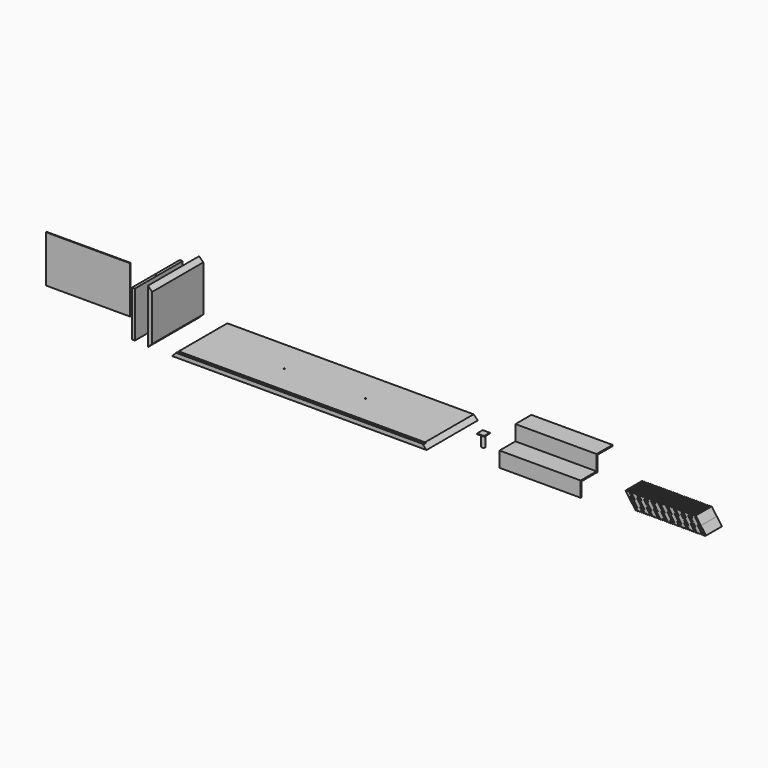
from build123d import *

# Parameters (mm, degrees)
F0_W      = 1790
F0_H      = 450
F1_DEPTH  = 29
F3_DEPTH  = 450
F4_W      = 18
F4_H      = 5
F5_DEPTH  = 895
F6_R      = 4
F7_DEPTH  = 10
F8_W      = 29
F8_H      = 450
F9_DEPTH  = 380
F11_DEPTH = 450
F12_W     = 20
F12_H     = 420
F13_DEPTH = 322
F14_R     = 4
F15_DEPTH = 322
F16_W     = 571
F16_H     = 280
F17_DEPTH = 322
F19_DEPTH = 571
F20_W     = 571
F20_H     = 140
F21_DEPTH = 107
F23_DEPTH = 140
F24_W     = 590
F24_H     = 6
F25_DEPTH = 330
F26_W     = 50
F26_H     = 50
F27_DEPTH = 85
F29_W     = 30
F29_H     = 80


with BuildPart() as f1:
    # F0 (on Top) → F1 (new body)
    with BuildSketch(Plane.XY):
        Rectangle(F0_W, F0_H)
    extrude(amount=F1_DEPTH)

    # F2 (on face) → F3 (cut)
    with BuildSketch(Plane.XZ.offset(225)):
        Polygon((-895, 29), (-895, 0), (-866, 29), align=None)
        Polygon((866, 29), (895, 0), (895, 29), align=None)
    extrude(amount=-F3_DEPTH, mode=Mode.SUBTRACT)

    # F4 (on Right) → F5 (cut, symmetric)
    with BuildSketch(Plane.YZ):
        with Locations((-211, 26.5)):
            Rectangle(F4_W, F4_H)
    extrude(amount=F5_DEPTH, both=True, mode=Mode.SUBTRACT)

    # F6 (on face) → F7 (cut)
    with BuildSketch(Plane.XY.offset(29)):
        with Locations((-285, 0)):
            Circle(F6_R)
        with Locations((285, 0)):
            Circle(F6_R)
    extrude(amount=-F7_DEPTH, mode=Mode.SUBTRACT)


with BuildPart() as f9:
    # F8 (on Top) → F9 (new body)
    with BuildSketch(Plane.XY):
        with Locations((-1049.6199131012, 0)):
            Rectangle(F8_W, F8_H)
    extrude(amount=F9_DEPTH)

    # F10 (on face) → F11 (cut)
    with BuildSketch(Plane.XZ.offset(225)):
        Polygon((-1035.1199131012, 351), (-1035.1199131012, 380), (-1064.1199131012, 380), align=None)
        Polygon((-1035.1199131012, 29), (-1064.1199131012, 0), (-1035.1199131012, 0), align=None)
    extrude(amount=-F11_DEPTH, mode=Mode.SUBTRACT)


with BuildPart() as f13:
    # F12 (on Top) → F13 (new body)
    with BuildSketch(Plane.XY):
        with Locations((-1178.4996986389, 0)):
            Rectangle(F12_W, F12_H)
    extrude(amount=F13_DEPTH)

    # F14 (on face) → F15 (cut)
    with BuildSketch(Plane.XY.offset(322)):
        with Locations((-1178.4996986389, -15)):
            Circle(F14_R)
    extrude(amount=-F15_DEPTH, mode=Mode.SUBTRACT)


with BuildPart() as f17:
    # F16 (on Top) → F17 (new body)
    with BuildSketch(Plane.XY):
        with Locations((1625.3765821457, 0)):
            Rectangle(F16_W, F16_H)
    extrude(amount=F17_DEPTH)

    # F18 (on face) → F19 (cut)
    with BuildSketch(Plane.YZ.offset(1910.8765821457)):
        Polygon((-140, 322), (-140, 107), (0, 107), (0, 214), (140, 214), (140, 322), align=None)
        Polygon((140, 0), (140, 206), (8, 206), (8, 99), (-132, 99), (-132, 0), align=None)
    extrude(amount=-F19_DEPTH, mode=Mode.SUBTRACT)


with BuildPart() as f21:
    # F20 (on Top) → F21 (new body)
    with BuildSketch(Plane.XY):
        with Locations((2455.5897712708, 0)):
            Rectangle(F20_W, F20_H)
    extrude(amount=F21_DEPTH)

    # F22 (on face) → F23 (cut)
    with BuildSketch(Plane.XZ.offset(70)):
        Polygon((2167.0832633972, -2.8473117352), (2170.0897712708, -2.8473117352), (2741.0897712708, -2.8473117352), (2743.0897712708, -2.8473117352), (2743.0897712708, 107.7664121985), (2741.0897712708, 107.7664121985), (2169.0832633972, 107.7664121985), (2167.0832633972, 107.7664121985), align=None)
        Polygon((2241.8123873468, 0), (2170.0897712708, 101.1526882648), (2178.2472461308, 106.9367702065), (2213.5301459747, 57.17617356), (2214.3458934607, 57.7545817542), (2183.5743362724, 101.1526882648), (2191.7318111325, 106.9367702065), (2227.0147109764, 57.17617356), (2227.8458934607, 57.7545817542), (2197.0743362724, 101.1526882648), (2205.2318111325, 106.9367702065), (2240.5147109764, 57.17617356), (2241.3458934607, 57.7545817542), (2210.5743362724, 101.1526882648), (2218.7318111325, 106.9367702065), (2254.0147109764, 57.17617356), (2254.8458934607, 57.7545817542), (2224.0743362724, 101.1526882648), (2232.2318111325, 106.9367702065), (2267.5147109764, 57.17617356), (2268.3458934607, 57.7545817542), (2237.5743362724, 101.1526882648), (2245.7318111325, 106.9367702065), (2281.0147109764, 57.17617356), (2281.8458934607, 57.7545817542), (2251.0743362724, 101.1526882648), (2259.2318111325, 106.9367702065), (2294.5147109764, 57.17617356), (2295.3458934607, 57.7545817542), (2264.5743362724, 101.1526882648), (2272.7318111325, 106.9367702065), (2308.0147109764, 57.17617356), (2308.8458934607, 57.7545817542), (2278.0743362724, 101.1526882648), (2286.2318111325, 106.9367702065), (2321.5147109764, 57.17617356), (2322.3458934607, 57.7545817542), (2291.5743362724, 101.1526882648), (2299.7318111325, 106.9367702065), (2335.0147109764, 57.17617356), (2335.8458934607, 57.7545817542), (2305.0743362724, 101.1526882648), (2313.2318111325, 106.9367702065), (2348.5147109764, 57.17617356), (2349.3458934607, 57.7545817542), (2318.5743362724, 101.1526882648), (2326.7318111325, 106.9367702065), (2362.0147109764, 57.17617356), (2362.8458934607, 57.7545817542), (2332.0743362724, 101.1526882648), (2340.2318111325, 106.9367702065), (2375.5147109764, 57.17617356), (2376.3458934607, 57.7545817542), (2345.5743362724, 101.1526882648), (2353.7318111325, 106.9367702065), (2389.0147109764, 57.17617356), (2389.8458934607, 57.7545817542), (2359.0743362724, 101.1526882648), (2367.2318111325, 106.9367702065), (2402.5147109764, 57.17617356), (2403.3458934607, 57.7545817542), (2372.5743362724, 101.1526882648), (2380.7318111325, 106.9367702065), (2416.0147109764, 57.17617356), (2416.8458934607, 57.7545817542), (2386.0743362724, 101.1526882648), (2394.2318111325, 106.9367702065), (2429.5147109764, 57.17617356), (2430.3458934607, 57.7545817542), (2399.5743362724, 101.1526882648), (2407.7318111325, 106.9367702065), (2443.0147109764, 57.17617356), (2443.8458934607, 57.7545817542), (2413.0743362724, 101.1526882648), (2421.2318111325, 106.9367702065), (2456.5147109764, 57.17617356), (2457.3458934607, 57.7545817542), (2426.5743362724, 101.1526882648), (2434.7318111325, 106.9367702065), (2470.0147109764, 57.17617356), (2470.8458934607, 57.7545817542), (2440.0743362724, 101.1526882648), (2448.2318111325, 106.9367702065), (2483.5147109764, 57.17617356), (2484.3458934607, 57.7545817542), (2453.5743362724, 101.1526882648), (2461.7318111325, 106.9367702065), (2497.0147109764, 57.17617356), (2497.8458934607, 57.7545817542), (2467.0743362724, 101.1526882648), (2475.2318111325, 106.9367702065), (2510.5147109764, 57.17617356), (2511.3458934607, 57.7545817542), (2480.5743362724, 101.1526882648), (2488.7318111325, 106.9367702065), (2524.0147109764, 57.1761735601), (2524.8458934607, 57.7545817542), (2494.0743362724, 101.1526882648), (2502.2318111325, 106.9367702065), (2537.5147109764, 57.1761735601), (2538.3458934607, 57.7545817542), (2507.5743362724, 101.1526882648), (2515.7318111325, 106.9367702065), (2551.0147109764, 57.1761735601), (2551.8458934607, 57.7545817542), (2521.0743362724, 101.1526882648), (2529.2318111325, 106.9367702065), (2564.5147109764, 57.1761735601), (2565.3458934607, 57.7545817542), (2534.5743362724, 101.1526882648), (2542.7318111325, 106.9367702065), (2578.0147109764, 57.1761735601), (2578.8458934607, 57.7545817542), (2548.0743362724, 101.1526882648), (2556.2318111325, 106.9367702065), (2591.5147109764, 57.1761735601), (2592.3458934607, 57.7545817542), (2561.5743362724, 101.1526882648), (2569.7318111325, 106.9367702065), (2605.0147109764, 57.1761735601), (2605.8458934607, 57.7545817542), (2575.0743362724, 101.1526882648), (2583.2318111325, 106.9367702065), (2618.5147109764, 57.1761735601), (2619.3458934607, 57.7545817542), (2588.5743362724, 101.1526882648), (2596.7318111325, 106.9367702065), (2632.0147109764, 57.1761735601), (2632.8458934607, 57.7545817542), (2602.0743362724, 101.1526882648), (2610.2318111325, 106.9367702065), (2645.5147109764, 57.1761735601), (2646.3458934607, 57.7545817542), (2615.5743362724, 101.1526882648), (2623.7318111325, 106.9367702065), (2659.0147109764, 57.1761735601), (2659.8458934607, 57.7545817542), (2629.0743362724, 101.1526882648), (2637.2318111325, 106.9367702065), (2672.5147109764, 57.1761735601), (2673.3458934607, 57.7545817542), (2642.5743362724, 101.1526882648), (2650.7318111325, 106.9367702065), (2686.0147109764, 57.1761735601), (2686.8458934607, 57.7545817542), (2656.0743362724, 101.1526882648), (2664.2318111325, 106.9367702065), (2699.5147109763, 57.1761735601), (2700.6715273647, 55.544678588), (2735.9544272086, 5.7840819416), (2727.7969523485, 0), (2688.002709849, 56.1230867822), (2687.1715273647, 55.544678588), (2722.4544272086, 5.7840819416), (2714.2969523485, 0), (2674.502709849, 56.1230867822), (2673.6715273647, 55.544678588), (2708.9544272086, 5.7840819416), (2700.7969523485, 0), (2661.002709849, 56.1230867822), (2660.1715273647, 55.544678588), (2695.4544272086, 5.7840819416), (2687.2969523485, 0), (2647.502709849, 56.1230867822), (2646.6715273647, 55.544678588), (2681.9544272086, 5.7840819416), (2673.7969523485, 0), (2634.002709849, 56.1230867822), (2633.1715273647, 55.544678588), (2668.4544272086, 5.7840819416), (2660.2969523485, 0), (2620.502709849, 56.1230867822), (2619.6715273647, 55.544678588), (2654.9544272086, 5.7840819416), (2646.7969523485, 0), (2607.002709849, 56.1230867822), (2606.1715273647, 55.544678588), (2641.4544272086, 5.7840819416), (2633.2969523485, 0), (2593.502709849, 56.1230867822), (2592.6715273647, 55.544678588), (2627.9544272086, 5.7840819416), (2619.7969523485, 0), (2580.002709849, 56.1230867822), (2579.1715273647, 55.544678588), (2614.4544272086, 5.7840819416), (2606.2969523485, 0), (2566.502709849, 56.1230867822), (2565.6715273647, 55.544678588), (2600.9544272086, 5.7840819416), (2592.7969523485, 0), (2553.002709849, 56.1230867822), (2552.1715273647, 55.544678588), (2587.4544272086, 5.7840819416), (2579.2969523485, 0), (2539.502709849, 56.1230867822), (2538.6715273647, 55.544678588), (2573.9544272086, 5.7840819416), (2565.7969523485, 0), (2526.002709849, 56.1230867822), (2525.1715273647, 55.544678588), (2560.4544272086, 5.7840819416), (2552.2969523485, 0), (2512.502709849, 56.1230867822), (2511.6715273647, 55.544678588), (2546.9544272086, 5.7840819416), (2538.7969523485, 0), (2499.002709849, 56.1230867822), (2498.1715273647, 55.544678588), (2533.4544272086, 5.7840819416), (2525.2969523485, 0), (2485.502709849, 56.1230867822), (2484.6715273647, 55.544678588), (2519.9544272086, 5.7840819416), (2511.7969523485, 0), (2472.002709849, 56.1230867822), (2471.1715273647, 55.544678588), (2506.4544272086, 5.7840819416), (2498.2969523485, 0), (2458.502709849, 56.1230867822), (2457.6715273647, 55.544678588), (2492.9544272086, 5.7840819416), (2484.7969523485, 0), (2445.002709849, 56.1230867822), (2444.1715273647, 55.544678588), (2479.4544272086, 5.7840819416), (2471.2969523485, 0), (2431.502709849, 56.1230867822), (2430.6715273647, 55.544678588), (2465.9544272086, 5.7840819416), (2457.7969523485, 0), (2418.002709849, 56.1230867822), (2417.1715273647, 55.544678588), (2452.4544272086, 5.7840819416), (2444.2969523485, 0), (2404.502709849, 56.1230867822), (2403.6715273647, 55.544678588), (2438.9544272086, 5.7840819416), (2430.7969523485, 0), (2391.002709849, 56.1230867822), (2390.1715273647, 55.544678588), (2425.4544272086, 5.7840819416), (2417.2969523485, 0), (2377.502709849, 56.1230867822), (2376.6715273647, 55.544678588), (2411.9544272086, 5.7840819416), (2403.7969523485, 0), (2364.002709849, 56.1230867822), (2363.1715273647, 55.544678588), (2398.4544272086, 5.7840819416), (2390.2969523485, 0), (2350.502709849, 56.1230867822), (2349.6715273647, 55.544678588), (2384.9544272086, 5.7840819416), (2376.7969523485, 0), (2337.002709849, 56.1230867822), (2336.1715273647, 55.544678588), (2371.4544272086, 5.7840819416), (2363.2969523485, 0), (2323.502709849, 56.1230867822), (2322.6715273647, 55.544678588), (2357.9544272086, 5.7840819416), (2349.7969523485, 0), (2310.002709849, 56.1230867822), (2309.1715273647, 55.544678588), (2344.4544272086, 5.7840819416), (2336.2969523485, 0), (2296.502709849, 56.1230867822), (2295.6715273647, 55.544678588), (2330.9544272086, 5.7840819416), (2322.7969523485, 0), (2283.002709849, 56.1230867822), (2282.1715273647, 55.544678588), (2317.4544272086, 5.7840819416), (2309.2969523485, 0), (2269.502709849, 56.1230867822), (2268.6715273647, 55.544678588), (2303.9544272086, 5.7840819416), (2295.7969523485, 0), (2256.002709849, 56.1230867822), (2255.1715273647, 55.544678588), (2290.4544272086, 5.7840819416), (2282.2969523485, 0), (2242.502709849, 56.1230867822), (2241.6715273647, 55.544678588), (2276.9544272086, 5.7840819416), (2268.7969523485, 0), (2229.002709849, 56.1230867822), (2228.1715273647, 55.544678588), (2263.4544272086, 5.7840819416), (2255.2969523485, 0), (2215.502709849, 56.1230867822), (2214.686962363, 55.544678588), (2249.9698622069, 5.7840819416), align=None, mode=Mode.SUBTRACT)
    extrude(amount=-F23_DEPTH, mode=Mode.SUBTRACT)


with BuildPart() as f25:
    # F24 (on Top) → F25 (new body)
    with BuildSketch(Plane.XY):
        with Locations((-1662.938952446, 0)):
            Rectangle(F24_W, F24_H)
    extrude(amount=F25_DEPTH)


with BuildPart() as f27:
    # F26 (on Top) → F27 (new body)
    with BuildSketch(Plane.XY):
        with Locations((1115, 0)):
            Rectangle(F26_W, F26_H)
    extrude(amount=F27_DEPTH)

    # F29 (on Front) → F30 (revolve, cut)
    with BuildSketch(Plane.XZ):
        with Locations((1142.5, 40)):
            Rectangle(F29_W, F29_H)
    revolve(axis=Axis((1115, 0, 39.299249351), (0, 0, -1)), mode=Mode.SUBTRACT)


solid = Compound([f1.part, f9.part, f13.part, f17.part, f21.part, f25.part, f27.part])
